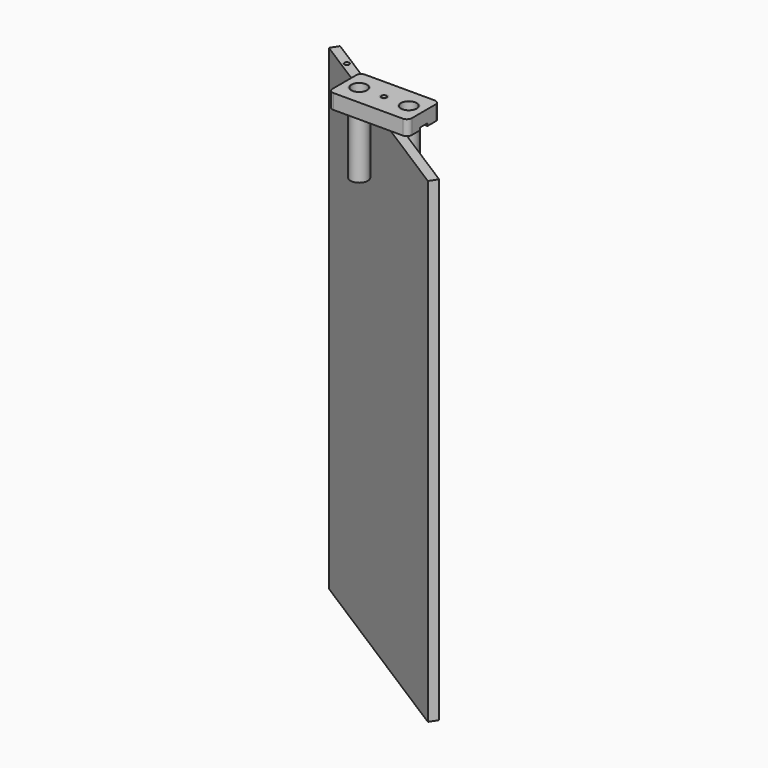
from build123d import *

# Parameters (mm, degrees)
F0_W      = 101.6
F0_H      = 50.8
F0_R      = 11.0871
F0_R_2    = 4.7625
F1_DEPTH  = 19.05
F2_R      = 11.0871
F2_R_2    = 9.8171
F3_DEPTH  = 101.6
F4_R      = 4.7625
F4_R_2    = 3.175
F5_DEPTH  = 25.4
F6_R      = 6.35
F8_DEPTH  = 609.6
F9_R      = 3.175
F10_DEPTH = 25.4
F11_W     = 101.6
F11_H     = 12
F12_DEPTH = 3.175


with BuildPart() as f1:
    # F0 (on Top) → F1 (new body)
    with BuildSketch(Plane.XY):
        Rectangle(F0_W, F0_H)
        with Locations((-31.75, 0)):
            Circle(F0_R, mode=Mode.SUBTRACT)
        Circle(F0_R_2, mode=Mode.SUBTRACT)
        with Locations((31.75, 0)):
            Circle(F0_R, mode=Mode.SUBTRACT)
    extrude(amount=F1_DEPTH)

    # F6
    f6_edges = [f1.edges().sort_by_distance(p)[0] for p in [
        (-50.8, -25.4, 9.525),
        (-50.8, 25.4, 9.525),
        (50.8, -25.4, 9.525),
        (50.8, 25.4, 9.525),
    ]]
    fillet(f6_edges, radius=F6_R)

    # F11 (on face) → F12 (cut)
    with BuildSketch(Plane(origin=(0, 0, 0), x_dir=(1, 0, 0), z_dir=(0, 0, -1))):
        Rectangle(F11_W, F11_H)
    extrude(amount=-F12_DEPTH, mode=Mode.SUBTRACT)


with BuildPart() as f3:
    # F2 (on face) → F3 (new body)
    with BuildSketch(Plane.XY.offset(19.05)):
        with Locations((-31.75, 0)):
            Circle(F2_R)
        with Locations((-31.75, 0)):
            Circle(F2_R_2, mode=Mode.SUBTRACT)
    extrude(amount=-F3_DEPTH)


with BuildPart() as f3b:
    # F2 (on face) → F3, piece 2 (new body)
    with BuildSketch(Plane.XY.offset(19.05)):
        with Locations((31.75, 0)):
            Circle(F2_R)
        with Locations((31.75, 0)):
            Circle(F2_R_2, mode=Mode.SUBTRACT)
    extrude(amount=-F3_DEPTH)


with BuildPart() as f5:
    # F4 (on face) → F5 (new body)
    with BuildSketch(Plane.XY.offset(19.05)):
        Circle(F4_R)
        Circle(F4_R_2, mode=Mode.SUBTRACT)
    extrude(amount=-F5_DEPTH)


with BuildPart() as f8:
    # F7 (on face) → F8 (new body)
    with BuildSketch(Plane(origin=(0, 0, 0), x_dir=(1, 0, 0), z_dir=(0, 0, -1))):
        Polygon((125.502097575, 86.6607704171), (-131.8514955277, -76.6553895829), (-125.502097575, -86.6607704171), (131.8514955277, 76.6553895829), align=None)
    extrude(amount=F8_DEPTH)

    # F9 (on face) → F10 (cut)
    with BuildSketch(Plane.XY):
        with Locations((-96.5075974135, 61.24356)):
            Circle(F9_R)
    extrude(amount=-F10_DEPTH, mode=Mode.SUBTRACT)


solid = Compound([f1.part, f3.part, f3b.part, f5.part, f8.part])
